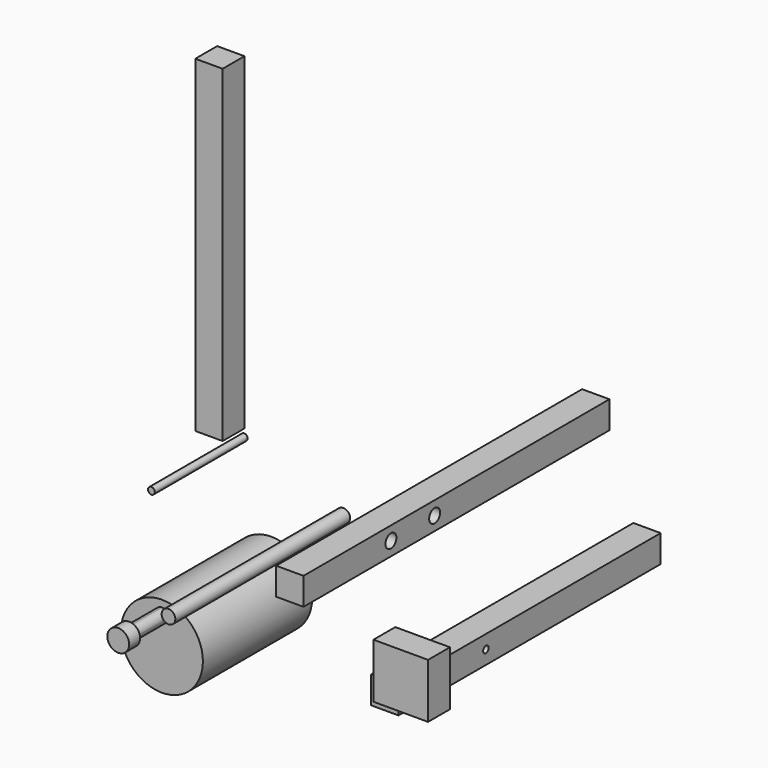
from build123d import *

# Parameters (mm, degrees)
F0_W      = 177.8
F0_H      = 12.7
F1_DEPTH  = 12.7
F3_DEPTH  = 25.4
F4_R      = 3.175
F5_DEPTH  = 101.6
F6_R      = 19.05
F7_DEPTH  = 63.5
F9_DEPTH  = 19.05
F10_R     = 5.08
F10_R_2   = 3.175
F11_DEPTH = 6.35
F12_W     = 12.7
F12_H     = 12.7
F13_DEPTH = 152.4
F14_W     = 152.4
F14_H     = 12.7
F15_DEPTH = 12.7
F17_DEPTH = 25.4
F18_R     = 1.5875
F19_DEPTH = 53.975
F20_W     = 25.4
F20_H     = 25.4
F21_DEPTH = 12.7


with BuildPart() as f1:
    # F0 (on Right) → F1 (new body)
    with BuildSketch(Plane.YZ):
        with Locations((29.888474, 19.878663)):
            Rectangle(F0_W, F0_H)
    extrude(amount=F1_DEPTH)

    # F2 (on face) → F3 (cut)
    with BuildSketch(Plane.YZ.offset(12.7)):
        with BuildLine():
            ThreePointArc((-5.036526, 19.878663), (-8.211526, 23.053663), (-11.386526, 19.878663))
            Line((-11.386526, 19.878663), (-8.211526, 19.878663))
            Line((-8.211526, 19.878663), (-5.036526, 19.878663))
        make_face()
        with BuildLine():
            Line((-8.211526, 19.878663), (-11.386526, 19.878663))
            ThreePointArc((-11.386526, 19.878663), (-8.211526, 16.703663), (-5.036526, 19.878663))
            Line((-5.036526, 19.878663), (-8.211526, 19.878663))
        make_face()
        with BuildLine():
            ThreePointArc((20.363474, 19.878663), (17.188474, 23.053663), (14.013474, 19.878663))
            ThreePointArc((14.013474, 19.878663), (17.188474, 16.703663), (20.363474, 19.878663))
        make_face()
    extrude(amount=-F3_DEPTH, mode=Mode.SUBTRACT)


with BuildPart() as f5:
    # F4 (on Front) → F5 (new body)
    with BuildSketch(Plane.XZ):
        with Locations((-16.018599, 17.512562)):
            Circle(F4_R)
    extrude(amount=F5_DEPTH)


with BuildPart() as f7:
    # F6 (on Front) → F7 (new body)
    with BuildSketch(Plane.XZ):
        with Locations((-49.549762, -20.998476)):
            Circle(F6_R)
    extrude(amount=F7_DEPTH)

    # F8 (on face) → F9 (join)
    with BuildSketch(Plane.XZ.offset(63.5)):
        with BuildLine():
            ThreePointArc((-49.549762, -5.123476), (-51.794826, -10.54354), (-46.374762, -8.298476))
            ThreePointArc((-46.374762, -8.298476), (-47.304698, -6.053412), (-49.549762, -5.123476))
        make_face()
    extrude(amount=F9_DEPTH)

    # F10 (on face) → F11 (join)
    with BuildSketch(Plane.XZ.offset(82.55)):
        with Locations((-49.549762, -8.298476)):
            Circle(F10_R)
        with Locations((-49.549762, -8.298476)):
            Circle(F10_R_2, mode=Mode.SUBTRACT)
        with Locations((-49.549762, -8.298476)):
            Circle(F10_R_2)
    extrude(amount=F11_DEPTH)


with BuildPart() as f13:
    # F12 (on Top) → F13 (new body)
    with BuildSketch(Plane.XY):
        with Locations((-114.252333, 51.071715)):
            Rectangle(F12_W, F12_H)
    extrude(amount=F13_DEPTH)


with BuildPart() as f15:
    # F14 (on Right) → F15 (new body)
    with BuildSketch(Plane.YZ):
        with Locations((88.254012, -57.590056)):
            Rectangle(F14_W, F14_H)
    extrude(amount=-F15_DEPTH)

    # F16 (on face) → F17 (cut)
    with BuildSketch(Plane.YZ):
        with BuildLine():
            ThreePointArc((64.441512, -57.590056), (62.854012, -56.002556), (61.266512, -57.590056))
            ThreePointArc((61.266512, -57.590056), (62.854012, -59.177556), (64.441512, -57.590056))
        make_face()
    extrude(amount=-F17_DEPTH, mode=Mode.SUBTRACT)


with BuildPart() as f19:
    # F18 (on Front) → F19 (new body)
    with BuildSketch(Plane.XZ):
        with Locations((-62.066108, 34.683995)):
            Circle(F18_R)
    extrude(amount=F19_DEPTH)


with BuildPart() as f21:
    # F20 (on Front) → F21 (new body)
    with BuildSketch(Plane.XZ):
        with Locations((20.856114, -32.920214)):
            Rectangle(F20_W, F20_H)
    extrude(amount=F21_DEPTH)


solid = Compound([f1.part, f5.part, f7.part, f13.part, f15.part, f19.part, f21.part])
